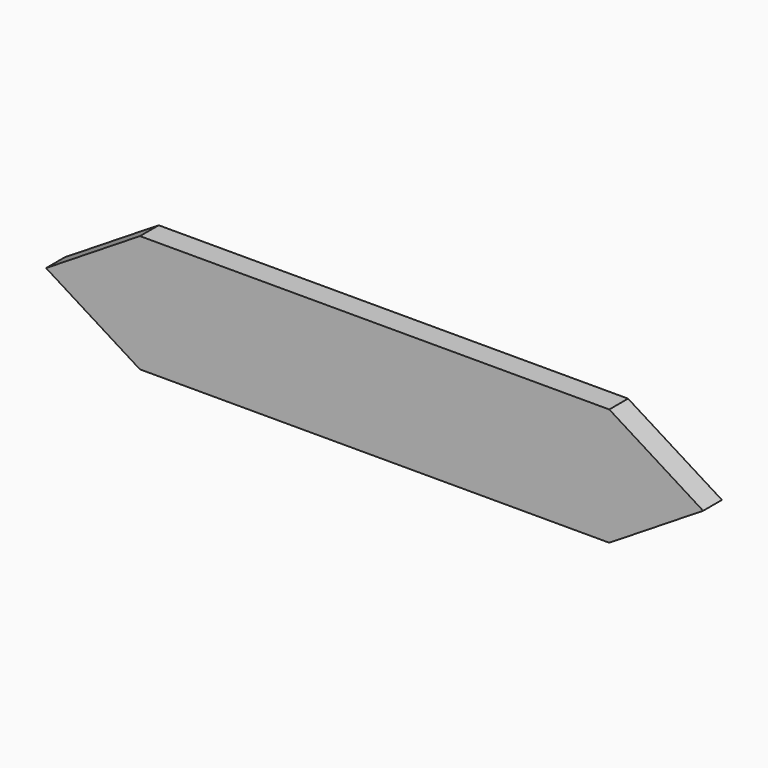
from build123d import *

# Parameters (mm, degrees)
F0_W     = 254
F0_H     = 63.5
F1_DEPTH = 12.7


with BuildPart() as f1:
    # F0 (on Front) → F1 (new body)
    with BuildSketch(Plane.XZ):
        with Locations((-35.634026, 0)):
            Rectangle(F0_W, F0_H)
        Polygon((-213.434026, 0), (-162.634026, -31.75), (-162.634026, 31.75), align=None)
        Polygon((91.365974, 31.75), (91.365974, -31.75), (142.165974, 0), align=None)
    extrude(amount=F1_DEPTH)


solid = f1.part
